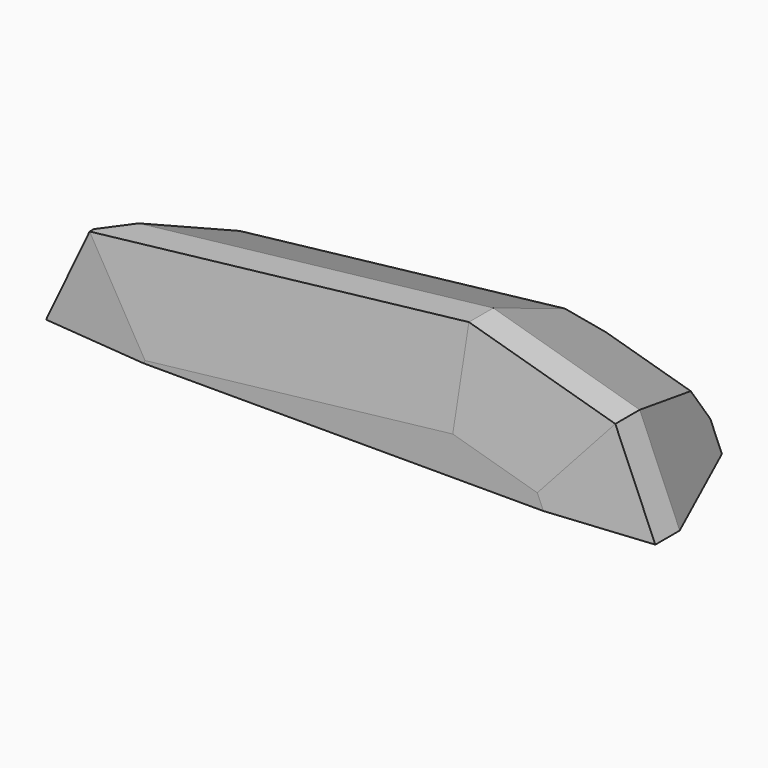
from build123d import *

# Parameters (mm, degrees)
F1_DEPTH = 80
F2_SIZE2 = 60
F2_SIZE  = 25
F3_SIZE2 = 5
F3_SIZE  = 47
F4_SIZE  = 10
F5_SIZE2 = 20
F5_SIZE  = 15
F6_SIZE  = 12


with BuildPart() as f1:
    # F0 (on Front) → F1 (new body)
    with BuildSketch(Plane.XZ):
        Polygon((-124.2189471151, -0.7847668109), (-145.6560869584, -45.9560966047), (154.3439130416, -45.9560966047), (134.6452535731, 0), (62.5519627112, 20.6774614667), align=None)
    extrude(amount=-F1_DEPTH)

    # F2
    f2_edges = [f1.edges().sort_by_distance(p)[0] for p in [
        (-30.833492, 80, 9.946347),
        (98.598608, 80, 10.338731),
        (144.494583, 80, -22.978048),
        (-134.937517, 80, -23.370432),
    ]]
    f2_side = f1.faces().sort_by_distance((8.549856, 80, -18.412725))[0]
    chamfer(f2_edges, length=F2_SIZE, length2=F2_SIZE2, reference=f2_side)

    # F3
    f3_edges = [f1.edges().sort_by_distance(p)[0] for p in [
        (-30.833492, 0, 9.946347),
        (-134.937517, 0, -23.370432),
        (98.598608, 0, 10.338731),
        (144.494583, 0, -22.978048),
    ]]
    f3_side = f1.faces().sort_by_distance((8.549856, 0, -18.412725))[0]
    chamfer(f3_edges, length=F3_SIZE, length2=F3_SIZE2, reference=f3_side)

    # F4
    f4_edges = [f1.edges().sort_by_distance(p)[0] for p in [
        (88.397911, 80, -12.743521),
    ]]
    chamfer(f4_edges, length=F4_SIZE)

    # F5
    f5_edges = [f1.edges().sort_by_distance(p)[0] for p in [
        (-36.512691, 80, -15.870779),
    ]]
    f5_side = f1.faces().sort_by_distance((-28.16235, 49.160168, -1.976733))[0]
    chamfer(f5_edges, length=F5_SIZE, length2=F5_SIZE2, reference=f5_side)

    # F6
    f6_edges = [f1.edges().sort_by_distance(p)[0] for p in [
        (-117.819987, 43.076923, -9.72811),
    ]]
    chamfer(f6_edges, length=F6_SIZE)


solid = f1.part
